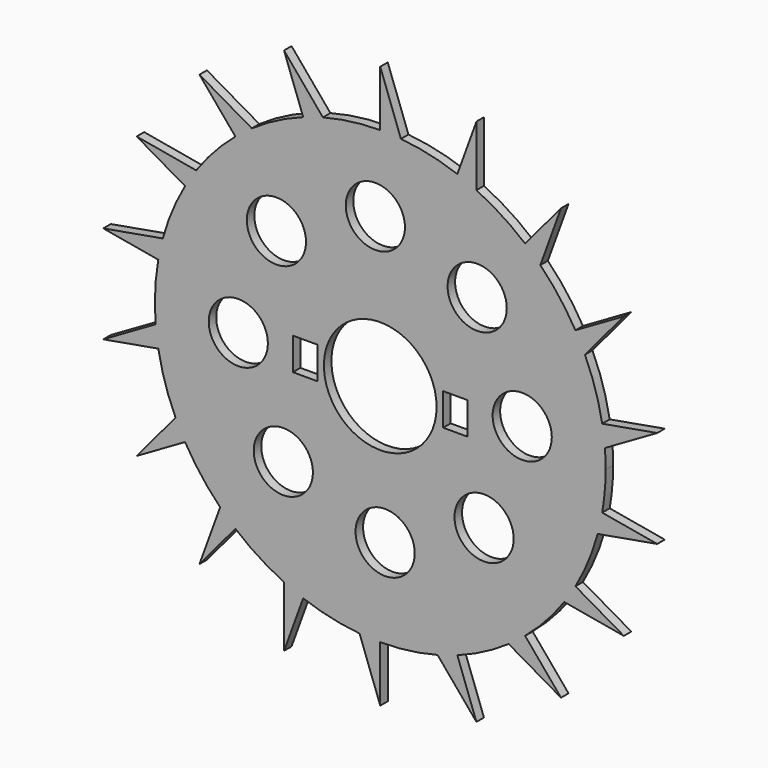
from build123d import *

# Parameters (mm, degrees)
F0_R     = 10.002614
F0_W     = 8.257874
F0_H     = 10.88538
F0_R_2   = 19.05
F1_DEPTH = 3.175


with BuildPart() as f1:
    # F0 (on Front) → F1 (new body)
    with BuildSketch(Plane.XZ):
        with BuildLine():
            ThreePointArc((75.042351, -13.231991), (75.910036, -6.641268), (76.2, 0))
            ThreePointArc((76.2, 0), (76.134965, 3.14755), (75.939972, 6.289727))
            ThreePointArc((75.939972, 6.289727), (75.570922, 9.771172), (75.042351, 13.231991))
            ThreePointArc((75.042351, 13.231991), (72.726083, 22.745479), (69.209018, 31.88341))
            ThreePointArc((69.209018, 31.88341), (67.6715, 35.028675), (65.991136, 38.1))
            ThreePointArc((65.991136, 38.1), (60.560752, 46.247544), (54.130435, 53.631483))
            ThreePointArc((54.130435, 53.631483), (51.609896, 56.061204), (48.980416, 58.372587))
            ThreePointArc((48.980416, 58.372587), (41.0909, 64.171473), (32.522923, 68.910808))
            ThreePointArc((32.522923, 68.910808), (29.323378, 70.331924), (26.061935, 71.604578))
            ThreePointArc((26.061935, 71.604578), (16.664879, 74.355375), (6.992666, 75.878473))
            ThreePointArc((6.992666, 75.878473), (3.500027, 76.119576), (0, 76.2))
            ThreePointArc((0, 76.2), (-9.771172, 75.570922), (-19.381009, 73.694074))
            ThreePointArc((-19.381009, 73.694074), (-22.745479, 72.726083), (-26.061935, 71.604578))
            ThreePointArc((-26.061935, 71.604578), (-35.028675, 67.6715), (-43.417049, 62.621082))
            ThreePointArc((-43.417049, 62.621082), (-46.247544, 60.560752), (-48.980416, 58.372587))
            ThreePointArc((-48.980416, 58.372587), (-56.061204, 51.609896), (-62.216352, 43.995063))
            ThreePointArc((-62.216352, 43.995063), (-64.171473, 41.0909), (-65.991136, 38.1))
            ThreePointArc((-65.991136, 38.1), (-70.331924, 29.323378), (-73.511444, 20.06259))
            ThreePointArc((-73.511444, 20.06259), (-74.355375, 16.664879), (-75.042351, 13.231991))
            ThreePointArc((-75.042351, 13.231991), (-76.119576, 3.500027), (-75.939972, -6.289727))
            ThreePointArc((-75.939972, -6.289727), (-75.570922, -9.771172), (-75.042351, -13.231991))
            ThreePointArc((-75.042351, -13.231991), (-72.726083, -22.745479), (-69.209018, -31.88341))
            ThreePointArc((-69.209018, -31.88341), (-67.6715, -35.028675), (-65.991136, -38.1))
            ThreePointArc((-65.991136, -38.1), (-60.560752, -46.247544), (-54.130435, -53.631483))
            ThreePointArc((-54.130435, -53.631483), (-51.609896, -56.061204), (-48.980416, -58.372587))
            ThreePointArc((-48.980416, -58.372587), (-41.0909, -64.171473), (-32.522923, -68.910808))
            ThreePointArc((-32.522923, -68.910808), (-29.323378, -70.331924), (-26.061935, -71.604578))
            ThreePointArc((-26.061935, -71.604578), (-16.664879, -74.355375), (-6.992666, -75.878473))
            ThreePointArc((-6.992666, -75.878473), (-3.500027, -76.119576), (0, -76.2))
            ThreePointArc((0, -76.2), (9.771172, -75.570922), (19.381009, -73.694074))
            ThreePointArc((19.381009, -73.694074), (22.745479, -72.726083), (26.061935, -71.604578))
            ThreePointArc((26.061935, -71.604578), (35.028675, -67.6715), (43.417049, -62.621082))
            ThreePointArc((43.417049, -62.621082), (46.247544, -60.560752), (48.980416, -58.372587))
            ThreePointArc((48.980416, -58.372587), (56.061204, -51.609896), (62.216352, -43.995063))
            ThreePointArc((62.216352, -43.995063), (64.171473, -41.0909), (65.991136, -38.1))
            ThreePointArc((65.991136, -38.1), (70.331924, -29.323378), (73.511444, -20.06259))
            ThreePointArc((73.511444, -20.06259), (74.355375, -16.664879), (75.042351, -13.231991))
        make_face()
        with Locations((-32.771484, -33.103804)):
            Circle(F0_R, mode=Mode.SUBTRACT)
        with Locations((1.650614, -45.994491)):
            Circle(F0_R, mode=Mode.SUBTRACT)
        with Locations((35.105805, -30.769484)):
            Circle(F0_R, mode=Mode.SUBTRACT)
        with Locations((-47.996491, 0.351386)):
            Circle(F0_R, mode=Mode.SUBTRACT)
        with Locations((-25.4, 0)):
            Rectangle(F0_W, F0_H, mode=Mode.SUBTRACT)
        with Locations((-35.105805, 34.773484)):
            Circle(F0_R, mode=Mode.SUBTRACT)
        with Locations((-1.650614, 49.998491)):
            Circle(F0_R, mode=Mode.SUBTRACT)
        Circle(F0_R_2, mode=Mode.SUBTRACT)
        with Locations((25.4, 0)):
            Rectangle(F0_W, F0_H, mode=Mode.SUBTRACT)
        with Locations((32.771484, 37.107805)):
            Circle(F0_R, mode=Mode.SUBTRACT)
        with Locations((47.996491, 3.652614)):
            Circle(F0_R, mode=Mode.SUBTRACT)
        with BuildLine():
            ThreePointArc((75.042351, 13.231991), (75.570922, 9.771172), (75.939972, 6.289727))
            Line((75.939972, 6.289727), (93.646024, 16.512321))
            Line((93.646024, 16.512321), (75.042351, 13.231991))
        make_face()
        with BuildLine():
            Line((93.646024, -16.512321), (75.042351, -13.231991))
            ThreePointArc((75.042351, -13.231991), (74.355375, -16.664879), (73.511444, -20.06259))
            Line((73.511444, -20.06259), (93.646024, -16.512321))
        make_face()
        with BuildLine():
            ThreePointArc((65.991136, 38.1), (67.6715, 35.028675), (69.209018, 31.88341))
            Line((69.209018, 31.88341), (82.350931, 47.545332))
            Line((82.350931, 47.545332), (65.991136, 38.1))
        make_face()
        with BuildLine():
            Line((82.350931, -47.545332), (65.991136, -38.1))
            ThreePointArc((65.991136, -38.1), (64.171473, -41.0909), (62.216352, -43.995063))
            Line((62.216352, -43.995063), (82.350931, -47.545332))
        make_face()
        with BuildLine():
            ThreePointArc((48.980416, 58.372587), (51.609896, 56.061204), (54.130435, 53.631483))
            Line((54.130435, 53.631483), (61.123101, 72.843675))
            Line((61.123101, 72.843675), (48.980416, 58.372587))
        make_face()
        with BuildLine():
            Line((61.123101, -72.843675), (48.980416, -58.372587))
            ThreePointArc((48.980416, -58.372587), (46.247544, -60.560752), (43.417049, -62.621082))
            Line((43.417049, -62.621082), (61.123101, -72.843675))
        make_face()
        with BuildLine():
            ThreePointArc((26.061935, 71.604578), (29.323378, 70.331924), (32.522923, 68.910808))
            Line((32.522923, 68.910808), (32.522923, 89.355996))
            Line((32.522923, 89.355996), (26.061935, 71.604578))
        make_face()
        with BuildLine():
            Line((32.522923, -89.355996), (26.061935, -71.604578))
            ThreePointArc((26.061935, -71.604578), (22.745479, -72.726083), (19.381009, -73.694074))
            Line((19.381009, -73.694074), (32.522923, -89.355996))
        make_face()
        with BuildLine():
            ThreePointArc((0, 76.2), (3.500027, 76.119576), (6.992666, 75.878473))
            Line((6.992666, 75.878473), (0, 95.090665))
            Line((0, 95.090665), (0, 76.2))
        make_face()
        with BuildLine():
            Line((0, -95.090665), (0, -76.2))
            ThreePointArc((0, -76.2), (-3.500027, -76.119576), (-6.992666, -75.878473))
            Line((-6.992666, -75.878473), (0, -95.090665))
        make_face()
        with BuildLine():
            ThreePointArc((-26.061935, 71.604578), (-22.745479, 72.726083), (-19.381009, 73.694074))
            Line((-19.381009, 73.694074), (-32.522923, 89.355996))
            Line((-32.522923, 89.355996), (-26.061935, 71.604578))
        make_face()
        with BuildLine():
            Line((-32.522923, -89.355996), (-26.061935, -71.604578))
            ThreePointArc((-26.061935, -71.604578), (-29.323378, -70.331924), (-32.522923, -68.910808))
            Line((-32.522923, -68.910808), (-32.522923, -89.355996))
        make_face()
        with BuildLine():
            ThreePointArc((-48.980416, 58.372587), (-46.247544, 60.560752), (-43.417049, 62.621082))
            Line((-43.417049, 62.621082), (-61.123101, 72.843675))
            Line((-61.123101, 72.843675), (-48.980416, 58.372587))
        make_face()
        with BuildLine():
            Line((-61.123101, -72.843675), (-48.980416, -58.372587))
            ThreePointArc((-48.980416, -58.372587), (-51.609896, -56.061204), (-54.130435, -53.631483))
            Line((-54.130435, -53.631483), (-61.123101, -72.843675))
        make_face()
        with BuildLine():
            ThreePointArc((-65.991136, 38.1), (-64.171473, 41.0909), (-62.216352, 43.995063))
            Line((-62.216352, 43.995063), (-82.350931, 47.545332))
            Line((-82.350931, 47.545332), (-65.991136, 38.1))
        make_face()
        with BuildLine():
            Line((-82.350931, -47.545332), (-65.991136, -38.1))
            ThreePointArc((-65.991136, -38.1), (-67.6715, -35.028675), (-69.209018, -31.88341))
            Line((-69.209018, -31.88341), (-82.350931, -47.545332))
        make_face()
        with BuildLine():
            ThreePointArc((-75.042351, 13.231991), (-74.355375, 16.664879), (-73.511444, 20.06259))
            Line((-73.511444, 20.06259), (-93.646024, 16.512321))
            Line((-93.646024, 16.512321), (-75.042351, 13.231991))
        make_face()
        with BuildLine():
            Line((-93.646024, -16.512321), (-75.042351, -13.231991))
            ThreePointArc((-75.042351, -13.231991), (-75.570922, -9.771172), (-75.939972, -6.289727))
            Line((-75.939972, -6.289727), (-93.646024, -16.512321))
        make_face()
    extrude(amount=F1_DEPTH)


solid = f1.part
